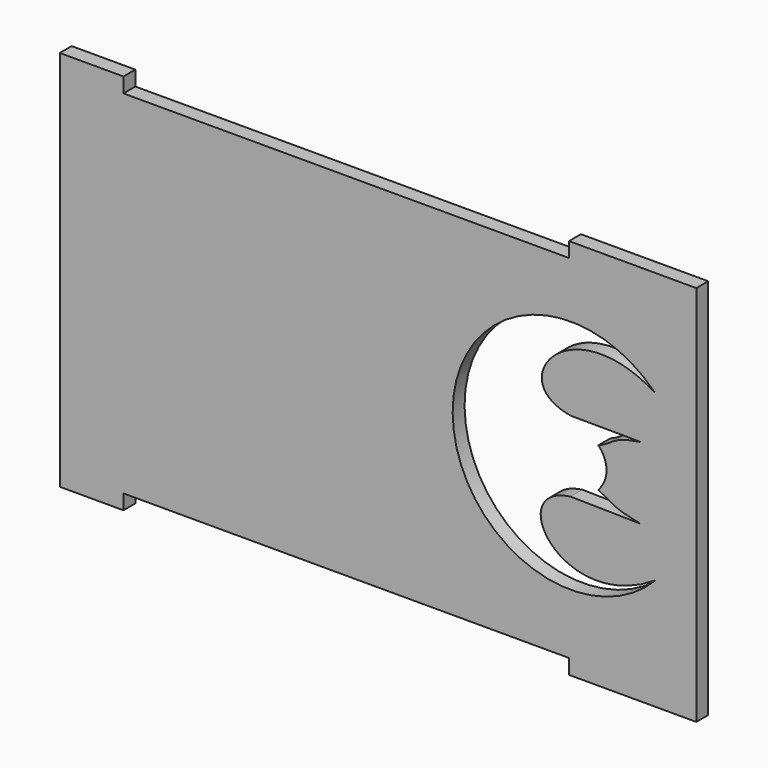
from build123d import *

# Parameters (mm, degrees)
F0_W     = 50
F0_H     = 50
F1_DEPTH = 2.9718


with BuildPart() as f1:
    # F0 (on Front) → F1 (new body)
    with BuildSketch(Plane.XZ):
        Polygon((-114.077829, 29.552513), (-126.777829, 29.552513), (-126.777829, -46.647487), (-114.077829, -46.647487), (-114.077829, -43.675687), (-25.177829, -43.675687), (-25.177829, -46.647487), (0.222171, -46.647487), (0.222171, 29.552513), (-25.177829, 29.552513), (-25.177829, 26.580713), (-114.077829, 26.580713), align=None)
        with Locations((-83.808942, -8.550122)):
            Rectangle(F0_W, F0_H, mode=Mode.SUBTRACT)
        with BuildLine():
            add(Edge.make_bspline(
                [(-19.346784, -12.256571), (-17.111819, -9.820127), (-17.173876, -6.681571), (-19.303551, -4.40842)],
                knots=[0, 0, 0, 0, 7.84827, 7.84827, 7.84827, 7.84827], degree=3))
            add(Edge.make_bspline(
                [(-10.943463, -15.46283), (-16.389997, -14.435962), (-16.135869, -13.747497), (-19.346784, -12.256571)],
                knots=[0, 0, 0, 0, 8.994215, 8.994215, 8.994215, 8.994215], degree=3))
            Line((-10.943463, -15.46283), (-24.911561, -15.23233))
            add(Edge.make_bspline(
                [(-7.925534, -24.444869), (-26.543526, -36.278751), (-38.655842, -17.188498), (-24.911561, -15.23233)],
                knots=[0, 0, 0, 0, 19.323457, 19.323457, 19.323457, 19.323457], degree=3))
            ThreePointArc((-7.925534, -24.444869), (-48.390088, -8.156787), (-8.10149, 8.561785))
            add(Edge.make_bspline(
                [(-24.834057, -1.009693), (-38.755533, 1.282068), (-25.218146, 18.846828), (-8.10149, 8.561785)],
                knots=[0, 0, 0, 0, 19.276721, 19.276721, 19.276721, 19.276721], degree=3))
            Line((-24.834057, -1.009693), (-10.864269, -1.086648))
            add(Edge.make_bspline(
                [(-10.864269, -1.086648), (-16.717657, -1.897488), (-16.07751, -3.153358), (-19.303551, -4.40842)],
                knots=[0, 0, 0, 0, 9.06949, 9.06949, 9.06949, 9.06949], degree=3))
        make_face(mode=Mode.SUBTRACT)
        with Locations((-83.808942, -8.550122)):
            Rectangle(F0_W, F0_H)
    extrude(amount=F1_DEPTH)


solid = f1.part
